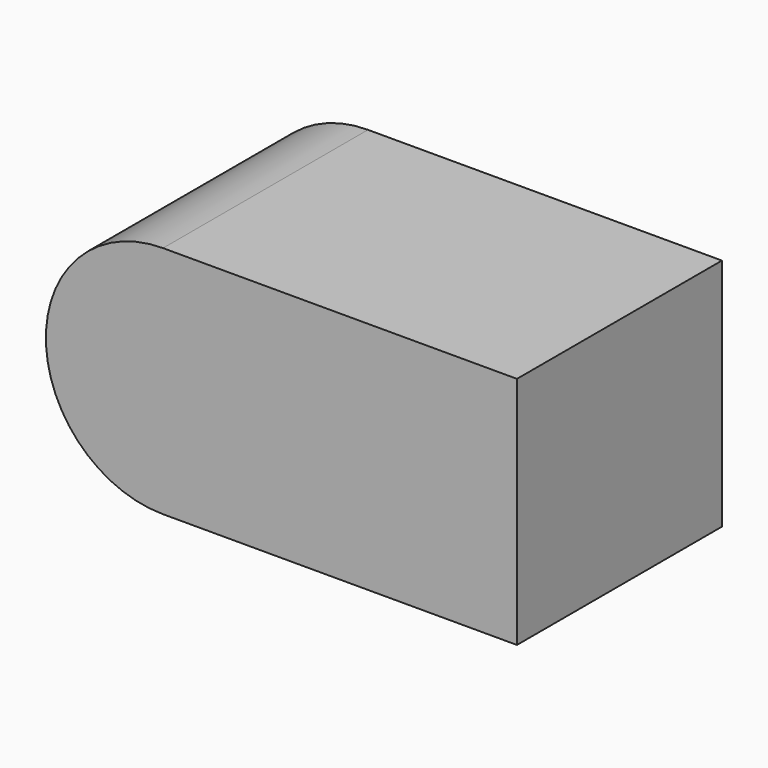
from build123d import *

# Parameters (mm, degrees)
F0_W     = 53.34
F0_H     = 35.305266
F1_DEPTH = 38.608


with BuildPart() as f1:
    # F0 (on Front) → F1 (new body)
    with BuildSketch(Plane.XZ):
        with BuildLine():
            ThreePointArc((0, 35.305266), (-17.652633, 17.652633), (0, 0))
            Line((0, 0), (0, 35.305266))
        make_face()
        with Locations((26.67, 17.652633)):
            Rectangle(F0_W, F0_H)
    extrude(amount=F1_DEPTH)


solid = f1.part
